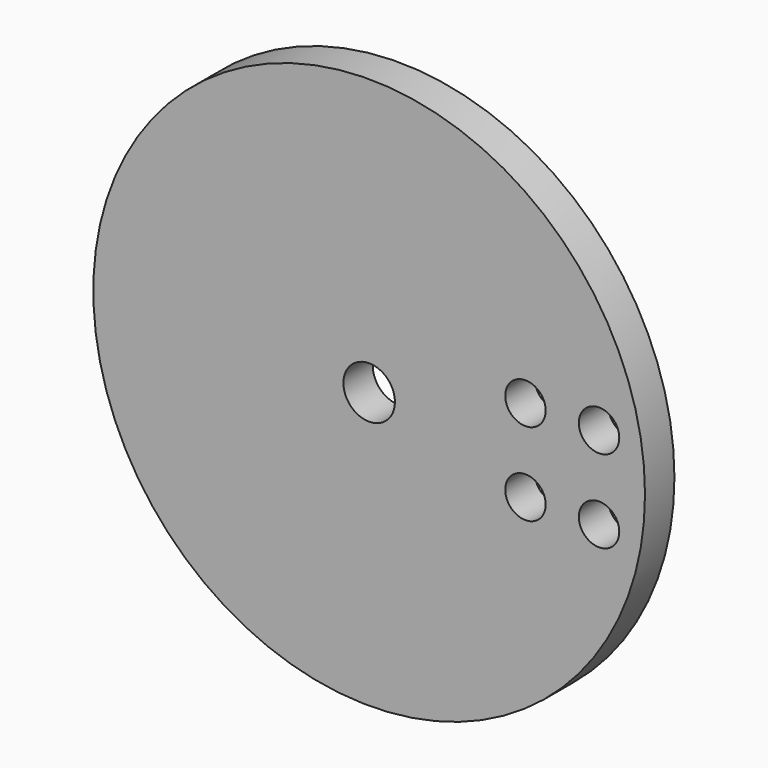
from build123d import *

# Parameters (mm, degrees)
CYLINDER033_R          = 2.8
CYLINDER033_DEPTH      = 10
CYLINDER033_ROLL_ANGLE = -90
CYLINDER013_R          = 2.2
CYLINDER013_DEPTH      = 26
CYLINDER013_ROLL_ANGLE = -90
ARRAY002_X_COUNT       = 2
ARRAY002_X_PITCH       = 8
ARRAY002_Z_COUNT       = 2
ARRAY002_Z_PITCH       = 9
CYLINDER011_R          = 30
CYLINDER011_DEPTH      = 4
CYLINDER011_ROLL_ANGLE = -90


with BuildPart() as obj1:
    # Cylinder033 → Cylinder033 (new body)
    with BuildSketch(Plane.XY):
        Circle(CYLINDER033_R)
    extrude(amount=CYLINDER033_DEPTH)


with BuildPart() as obj1_1:
    # Cylinder033 roll: moved
    add(obj1.part.rotate(Axis((0, 0, 0), (1, 0, 0)), CYLINDER033_ROLL_ANGLE))


with BuildPart() as obj1_2:
    # Cylinder033 placement: moved
    add(obj1_1.part.moved(Location((185, 18, 8.5))))


with BuildPart() as obj2:
    # Cylinder013 → Cylinder013 (new body)
    with BuildSketch(Plane.XY):
        Circle(CYLINDER013_R)
    extrude(amount=CYLINDER013_DEPTH)


with BuildPart() as obj2_1:
    # Cylinder013 roll: moved
    add(obj2.part.rotate(Axis((0, 0, 0), (1, 0, 0)), CYLINDER013_ROLL_ANGLE))


with BuildPart() as obj2_2:
    # Cylinder013 placement: moved
    add(obj2_1.part.moved(Location((202, 0, 4))))

    # Array002 X: obj2_2


with BuildPart() as obj2_3:
    add(obj2_2.part)
    with Locations(*[(i * ARRAY002_X_PITCH, 0, 0) for i in range(1, ARRAY002_X_COUNT)]):
        add(obj2_2.part)

    # Array002 Z: obj2_2


with BuildPart() as obj2_4:
    add(obj2_3.part)
    with Locations(*[(0, 0, i * ARRAY002_Z_PITCH) for i in range(1, ARRAY002_Z_COUNT)]):
        add(obj2_3.part)


with BuildPart() as obj3:
    # Cylinder011 → Cylinder011 (new body)
    with BuildSketch(Plane.XY):
        Circle(CYLINDER011_R)
    extrude(amount=CYLINDER011_DEPTH)


with BuildPart() as obj3_1:
    # Cylinder011 roll: moved
    add(obj3.part.rotate(Axis((0, 0, 0), (1, 0, 0)), CYLINDER011_ROLL_ANGLE))


with BuildPart() as obj3_2:
    # Cylinder011 placement: moved
    add(obj3_1.part.moved(Location((185, 20, 8.5))))

    # Cut008: cut obj2
    add(obj2_4.part, mode=Mode.SUBTRACT)

    # Cut030: cut obj1
    add(obj1_2.part, mode=Mode.SUBTRACT)


solid = obj3_2.part
